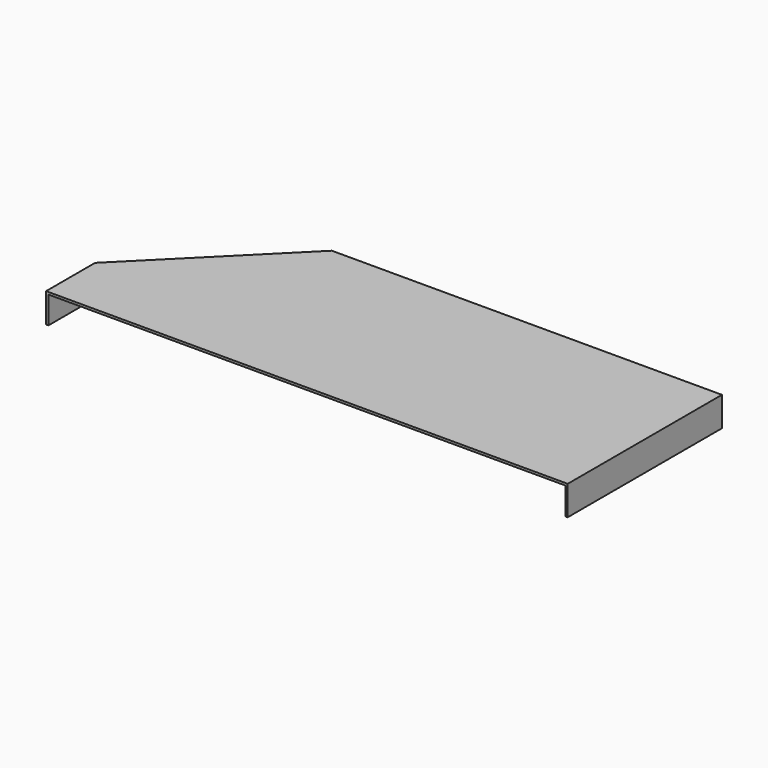
from build123d import *

# Parameters (mm, degrees)
F1_DEPTH = 1
F3_DEPTH = 12
F5_DEPTH = 1


with BuildPart() as f1:
    # F0 (on Top) → F1 (new body)
    with BuildSketch(Plane.XY):
        Polygon((-115, -42.5), (115, -42.5), (115, 42.5), (-57, 42.5), (-115, -15.5), align=None)
    extrude(amount=F1_DEPTH)

    # F2 (on face) → F3 (join)
    with BuildSketch(Plane(origin=(0, 0, 0), x_dir=(1, 0, 0), z_dir=(0, 0, -1))):
        Polygon((-115, 42.5), (-115, 15.5), (-57, -42.5), (115, -42.5), (115, 42.5), (114, 42.5), (114, -41.5), (-56.5857864376, -41.5), (-114, 15.9142135624), (-114, 42.5), align=None)
    extrude(amount=F3_DEPTH)

    # F4 (on face) → F5 (cut)
    with BuildSketch(Plane(origin=(-49.75, 49.75, 0), x_dir=(-0.7071067812, -0.7071067812, 0), z_dir=(-0.7071067812, 0.7071067812, 0))):
        Polygon((10.2630483272, 1), (10.2530483272, 1), (10.2530483272, -12), (23.2630483272, -12), align=None)
        Polygon((92.2774349448, -12), (92.2774349448, 1), (92.2674349448, 1), (79.2674349448, -12), align=None)
    extrude(amount=-F5_DEPTH, mode=Mode.SUBTRACT)


solid = f1.part
